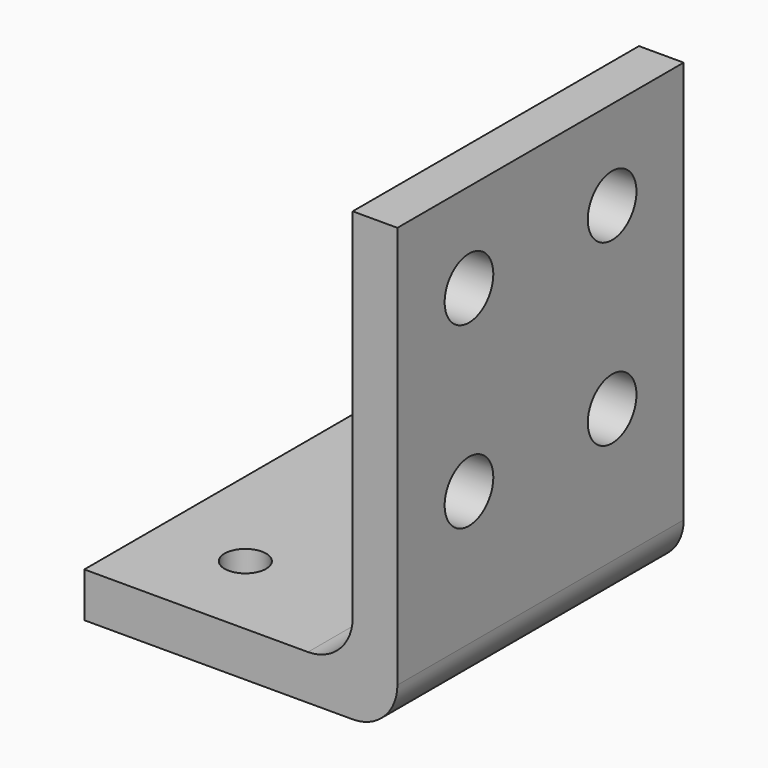
from build123d import *

# Parameters (mm, degrees)
F1_DEPTH = 25.4
F3_D     = 4.318
F3_DEPTH = 5.08
F3_TIP   = 1.2972580765
F5_D     = 2.9464
F5_DEPTH = 5.08
F5_TIP   = 0.885187864


with BuildPart() as f1:
    # F0 (on Front) → F1 (new body)
    with BuildSketch(Plane.XZ):
        with BuildLine():
            ThreePointArc((-3.175, 0), (-0.9299359697, 0.9299359697), (0, 3.175))
            Line((0, 3.175), (0, 31.75))
            Line((0, 31.75), (-3.175, 31.75))
            Line((-3.175, 31.75), (-3.175, 6.35))
            ThreePointArc((-3.175, 6.35), (-4.1049359697, 4.1049359697), (-6.35, 3.175))
            Line((-6.35, 3.175), (-22.225, 3.175))
            Line((-22.225, 3.175), (-22.225, 0))
            Line((-22.225, 0), (-3.175, 0))
        make_face()
    extrude(amount=F1_DEPTH)

    # F3
    with Locations(Plane(origin=(-3.175, 0, 0), x_dir=(0, -1, 0), z_dir=(-1, 0, 0))):
        with Locations((6.35, 12.7), (6.35, 25.4), (19.05, 25.4), (19.05, 12.7)):
            Hole(F3_D / 2, depth=F3_DEPTH)
            with Locations((0, 0, -(F3_DEPTH + F3_TIP / 2))):  # 118° drill point
                Cone(0, F3_D / 2, F3_TIP, mode=Mode.SUBTRACT)

    # F5
    with Locations(Plane(origin=(0, 0, 0), x_dir=(1, 0, 0), z_dir=(0, 0, -1))):
        with Locations((-6.35, 6.35), (-6.35, 19.05), (-15.875, 19.05), (-15.875, 6.35)):
            Hole(F5_D / 2, depth=F5_DEPTH)
            with Locations((0, 0, -(F5_DEPTH + F5_TIP / 2))):  # 118° drill point
                Cone(0, F5_D / 2, F5_TIP, mode=Mode.SUBTRACT)


solid = f1.part
